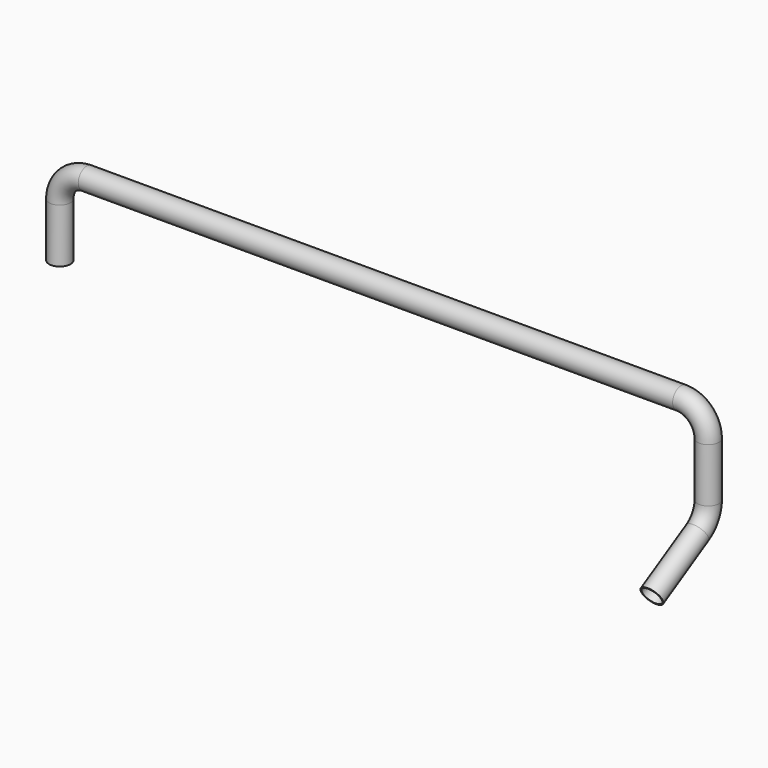
from build123d import *

# Parameters (mm, degrees)
F1_R   = 30.1625
F1_R_2 = 27.3939


with BuildPart() as f4:
    # F4: sweep along a path in F0, F3
    with BuildLine(Plane.XZ) as f4_path:
        Line((0, 0), (0, 152.4))
        ThreePointArc((0, 152.4), (22.3184632736, 206.2815367264), (76.2, 228.6))
        Line((76.2, 228.6), (1752.6, 228.6))
        ThreePointArc((1752.6, 228.6), (1806.4815367264, 206.2815367264), (1828.8, 152.4))
        Line((1828.8, 152.4), (1828.8, 0))
    with BuildLine(Plane.YZ.offset(1828.8)) as f4_path_2:
        ThreePointArc((0, 0), (-10.2088642316, -38.1), (-38.1, -65.9911357684))
        Line((-38.1, -65.9911357684), (-198.4317061272, -158.5586894605))
    # F1 (on Top) → F4 (sweep)
    with BuildSketch(Plane.XY):
        Circle(F1_R)
        Circle(F1_R_2, mode=Mode.SUBTRACT)
    sweep(path=f4_path.line + f4_path_2.line)


solid = f4.part
